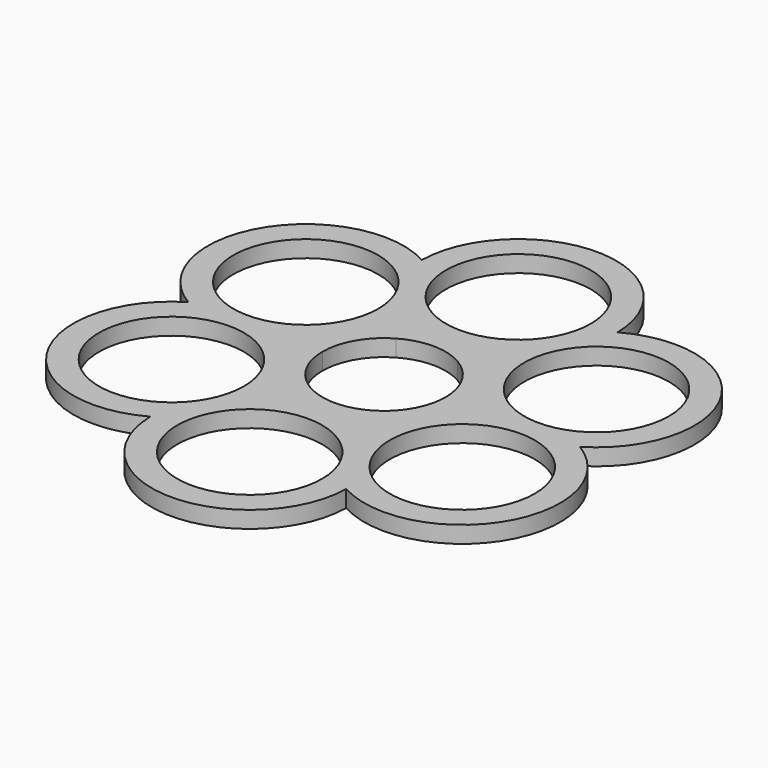
from build123d import *

# Parameters (mm, degrees)
F0_R     = 12.95
F1_DEPTH = 3


with BuildPart() as f1:
    # F0 (on Top) → F1 (new body)
    with BuildSketch(Plane.XY):
        with BuildLine():
            ThreePointArc((34.99464, 0), (41.136207, 23.75), (17.49732, 30.306247))
            ThreePointArc((17.49732, 30.306247), (0, 47.5), (-17.49732, 30.306247))
            ThreePointArc((-17.49732, 30.306247), (-41.136207, 23.75), (-34.99464, 0))
            ThreePointArc((-34.99464, 0), (-41.136207, -23.75), (-17.49732, -30.306247))
            ThreePointArc((-17.49732, -30.306247), (0, -47.5), (17.49732, -30.306247))
            ThreePointArc((17.49732, -30.306247), (41.136207, -23.75), (34.99464, 0))
        make_face()
        with Locations((-25.980762, -15)):
            Circle(F0_R, mode=Mode.SUBTRACT)
        with Locations((0, -30)):
            Circle(F0_R, mode=Mode.SUBTRACT)
        with Locations((25.980762, -15)):
            Circle(F0_R, mode=Mode.SUBTRACT)
        with Locations((-25.980762, 15)):
            Circle(F0_R, mode=Mode.SUBTRACT)
        with BuildLine():
            ThreePointArc((-5.5, 9.526279), (0, 11), (5.5, 9.526279))
            ThreePointArc((5.5, 9.526279), (9.526279, 5.5), (11, 0))
            ThreePointArc((11, 0), (9.526279, -5.5), (5.5, -9.526279))
            ThreePointArc((5.5, -9.526279), (0, -11), (-5.5, -9.526279))
            ThreePointArc((-5.5, -9.526279), (-9.526279, -5.5), (-11, 0))
            ThreePointArc((-11, 0), (-9.526279, 5.5), (-5.5, 9.526279))
        make_face(mode=Mode.SUBTRACT)
        with Locations((25.980762, 15)):
            Circle(F0_R, mode=Mode.SUBTRACT)
        with Locations((0, 30)):
            Circle(F0_R, mode=Mode.SUBTRACT)
    extrude(amount=F1_DEPTH)


solid = f1.part
